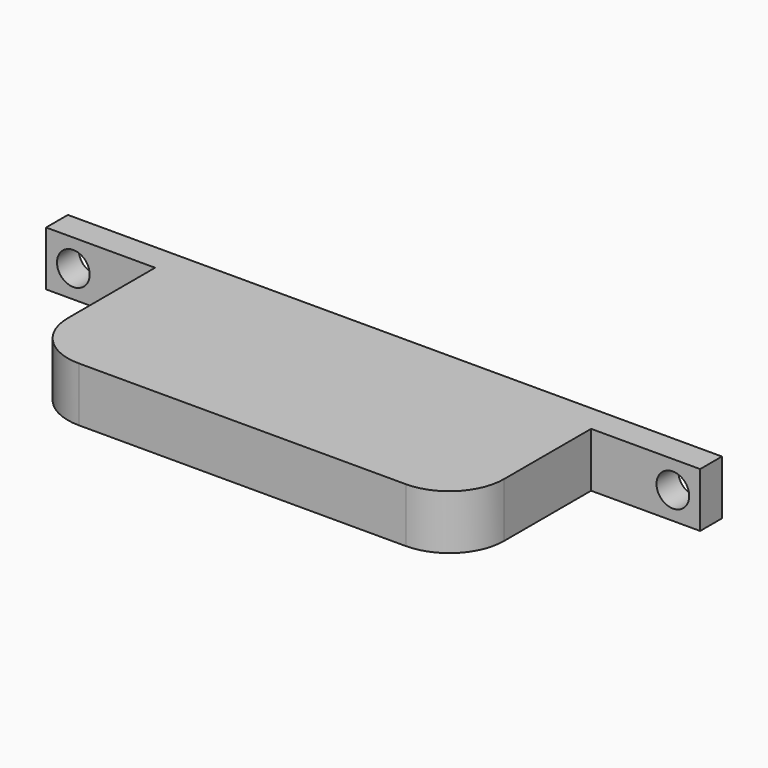
from build123d import *

# Parameters (mm, degrees)
F0_R     = 1.5
F1_DEPTH = 2.5
F3_DEPTH = 15
F4_R     = 5


with BuildPart() as f1:
    # F0 (on Front) → F1 (new body)
    with BuildSketch(Plane.XZ):
        with Locations((57.5, 2.5)):
            Circle(F0_R)
        with BuildLine():
            ThreePointArc((4, 2.5), (2.5, 4), (1, 2.5))
            ThreePointArc((1, 2.5), (2.5, 1), (4, 2.5))
        make_face()
        Polygon((0, 2.5), (0, 0), (60, 0), (60, 2.5), (60, 5), (0, 5), align=None)
        with BuildLine():
            ThreePointArc((4, 2.5), (2.5, 1), (1, 2.5))
            ThreePointArc((1, 2.5), (2.5, 4), (4, 2.5))
        make_face(mode=Mode.SUBTRACT)
        with Locations((57.5, 2.5)):
            Circle(F0_R, mode=Mode.SUBTRACT)
    extrude(amount=F1_DEPTH)

    # F2 (on face) → F3 (join)
    with BuildSketch(Plane.XZ.offset(2.5)):
        Polygon((50, 5), (30, 5), (10, 5), (10, 0), (50, 0), align=None)
    extrude(amount=F3_DEPTH)

    # F4
    f4_edges = [f1.edges().sort_by_distance(p)[0] for p in [
        (10, -17.5, 2.5),
        (50, -17.5, 2.5),
    ]]
    fillet(f4_edges, radius=F4_R)


solid = f1.part
